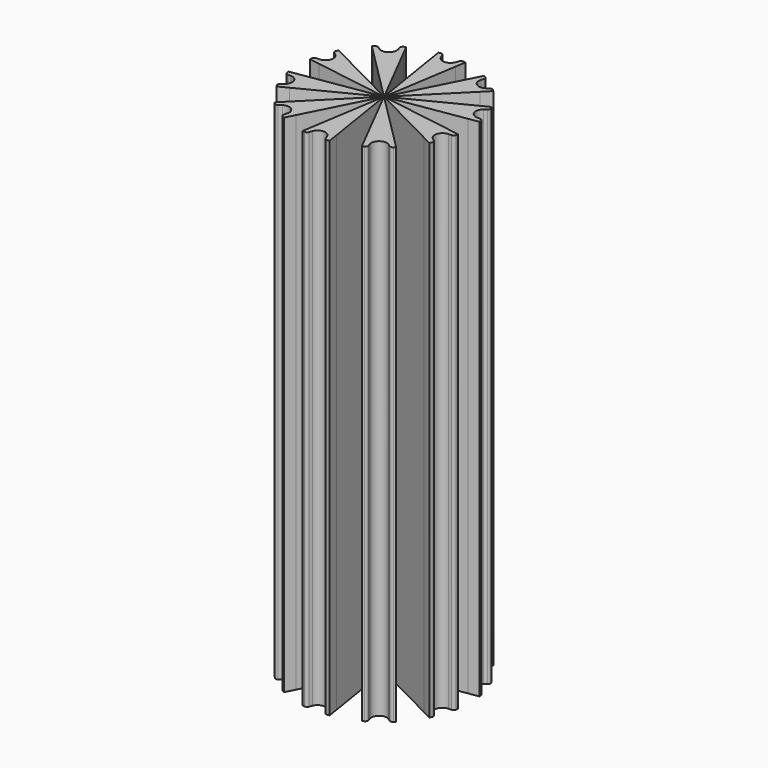
from build123d import *

# Parameters (mm, degrees)
F3_DEPTH = 18
F4_COUNT = 10


with BuildPart() as f3:
    # F2 (on Top) → F3 (new body, symmetric)
    with BuildSketch(Plane.XY):
        with BuildLine():
            Line((0.8388325323, 5.2961801716), (0.9561583811, 6.0369464271))
            ThreePointArc((0.9561583811, 6.0369464271), (0.8769247137, 6.0489638832), (0.7975402939, 6.0599414595))
            ThreePointArc((0.7975402939, 6.0599414595), (0.673583382, 6.0329713178), (0.5951684067, 5.9332527328))
            ThreePointArc((0.5951684067, 5.9332527328), (0.5578349377, 5.8252126761), (0.5180414063, 5.7180543045))
            ThreePointArc((0.5180414063, 5.7180543045), (0.3142454474, 5.4597320978), (0, 5.3621977237))
            ThreePointArc((0, 5.3621977237), (-0.3142454474, 5.4597320978), (-0.5180414063, 5.7180543045))
            ThreePointArc((-0.5180414063, 5.7180543045), (-0.5578349377, 5.8252126761), (-0.5951684067, 5.9332527328))
            ThreePointArc((-0.5951684067, 5.9332527328), (-0.673583382, 6.0329713178), (-0.7975402939, 6.0599414595))
            ThreePointArc((-0.7975402939, 6.0599414595), (-0.8769247137, 6.0489638832), (-0.9561583811, 6.0369464271))
            Line((-0.9561583811, 6.0369464271), (-0.8388325323, 5.2961801716))
            Line((-0.8388325323, 5.2961801716), (0, 0))
            Line((0, 0), (0.8388325323, 5.2961801716))
        make_face()
        with BuildLine():
            Line((0.8388325323, 5.2961801716), (0.9561583811, 6.0369464271))
            ThreePointArc((0.9561583811, 6.0369464271), (0.8769247137, 6.0489638832), (0.7975402939, 6.0599414595))
            ThreePointArc((0.7975402939, 6.0599414595), (0.673583382, 6.0329713178), (0.5951684067, 5.9332527328))
            ThreePointArc((0.5951684067, 5.9332527328), (0.5578349377, 5.8252126761), (0.5180414063, 5.7180543045))
            ThreePointArc((0.5180414063, 5.7180543045), (0.3142454474, 5.4597320978), (0, 5.3621977237))
            ThreePointArc((0, 5.3621977237), (-0.3142454474, 5.4597320978), (-0.5180414063, 5.7180543045))
            ThreePointArc((-0.5180414063, 5.7180543045), (-0.5578349377, 5.8252126761), (-0.5951684067, 5.9332527328))
            ThreePointArc((-0.5951684067, 5.9332527328), (-0.673583382, 6.0329713178), (-0.7975402939, 6.0599414595))
            ThreePointArc((-0.7975402939, 6.0599414595), (-0.8769247137, 6.0489638832), (-0.9561583811, 6.0369464271))
            Line((-0.9561583811, 6.0369464271), (-0.8388325323, 5.2961801716))
            Line((-0.8388325323, 5.2961801716), (0, 0))
            Line((0, 0), (0.8388325323, 5.2961801716))
        make_face()
        with BuildLine():
            Line((0.8388325323, 5.2961801716), (0.9561583811, 6.0369464271))
            ThreePointArc((0.9561583811, 6.0369464271), (0.8769247137, 6.0489638832), (0.7975402939, 6.0599414595))
            ThreePointArc((0.7975402939, 6.0599414595), (0.673583382, 6.0329713178), (0.5951684067, 5.9332527328))
            ThreePointArc((0.5951684067, 5.9332527328), (0.5578349377, 5.8252126761), (0.5180414063, 5.7180543045))
            ThreePointArc((0.5180414063, 5.7180543045), (0.3142454474, 5.4597320978), (0, 5.3621977237))
            ThreePointArc((0, 5.3621977237), (-0.3142454474, 5.4597320978), (-0.5180414063, 5.7180543045))
            ThreePointArc((-0.5180414063, 5.7180543045), (-0.5578349377, 5.8252126761), (-0.5951684067, 5.9332527328))
            ThreePointArc((-0.5951684067, 5.9332527328), (-0.673583382, 6.0329713178), (-0.7975402939, 6.0599414595))
            ThreePointArc((-0.7975402939, 6.0599414595), (-0.8769247137, 6.0489638832), (-0.9561583811, 6.0369464271))
            Line((-0.9561583811, 6.0369464271), (-0.8388325323, 5.2961801716))
            Line((-0.8388325323, 5.2961801716), (0, 0))
            Line((0, 0), (0.8388325323, 5.2961801716))
        make_face()
    extrude(amount=F3_DEPTH, both=True)

    # F4: F3 ×10 about axis
    f4_axis = Axis((0, 0, 0), (0, 0, -1))


with BuildPart() as f3_1:
    add(f3.part)
    for i in range(1, F4_COUNT):
        add(f3.part.rotate(f4_axis, i * 360 / F4_COUNT))


solid = f3_1.part
